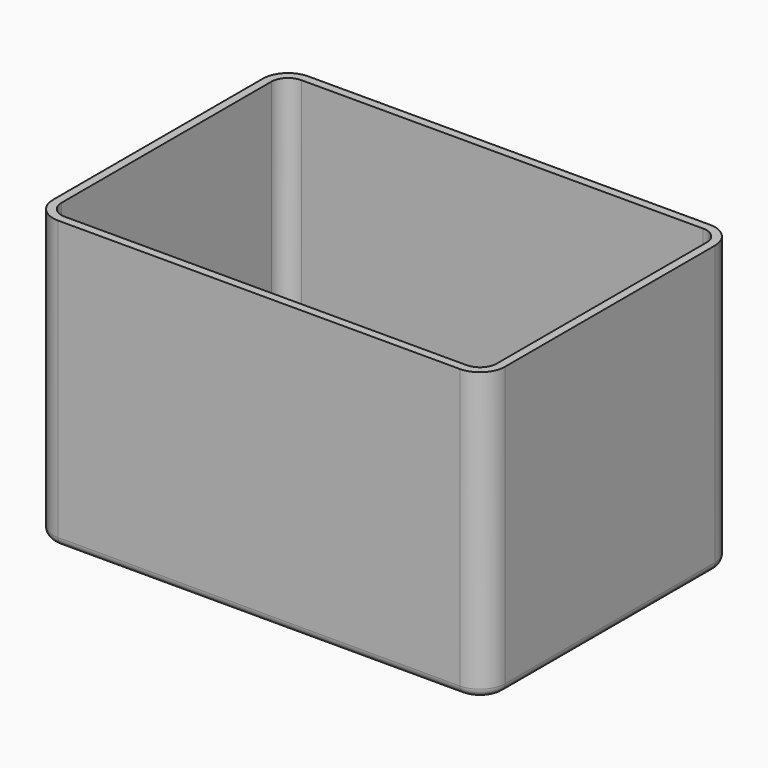
from build123d import *

# Parameters (mm, degrees)
PAD_DEPTH   = 50
THICKNESS_T = 1.5


with BuildPart() as part:
    # Sketch → Pad (new body)
    with BuildSketch(Plane.XY):
        with BuildLine():
            ThreePointArc((3, 0), (0.87868, -0.87868), (0, -3))
            Line((0, -50), (0, -3))
            ThreePointArc((0, -50), (0.87868, -52.12132), (3, -53))
            Line((75, -53), (3, -53))
            ThreePointArc((75, -53), (77.12132, -52.12132), (78, -50))
            Line((78, -3), (78, -50))
            ThreePointArc((78, -3), (77.12132, -0.87868), (75, 0))
            Line((3, 0), (75, 0))
        make_face()
    extrude(amount=PAD_DEPTH)

    # Thickness
    thickness_openings = [part.faces().sort_by_distance(p)[0] for p in [
        (39, -26.5, 50),
    ]]
    offset(amount=THICKNESS_T, openings=thickness_openings)


solid = part.part
